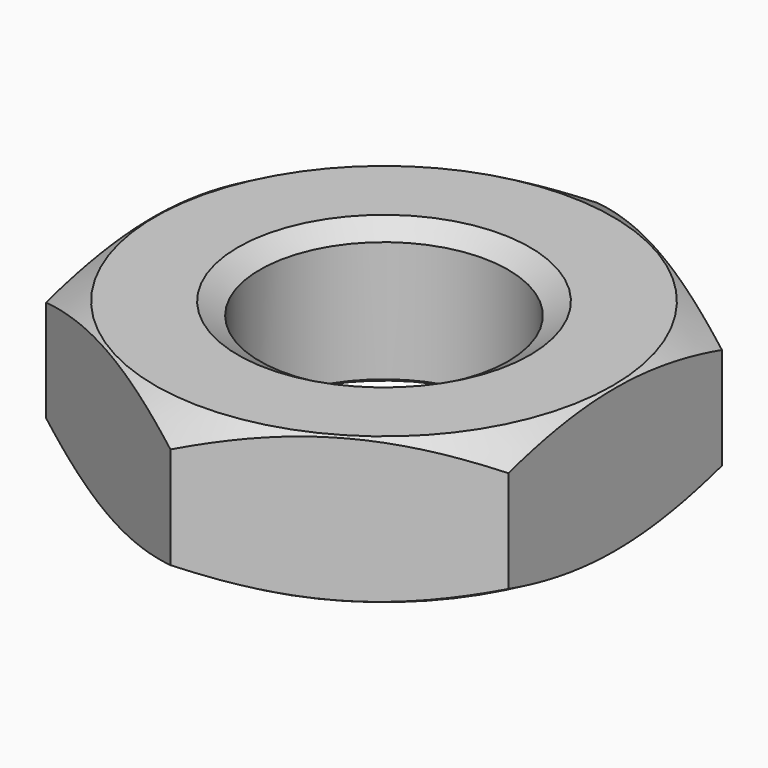
from build123d import *

# Parameters (mm, degrees)
SKETCH001_R  = 12
POCKET_DEPTH = 6


with BuildPart() as part:
    # Sketch → Revolution (revolve)
    with BuildSketch(Plane.XZ):
        Polygon((6, 0), (5.1, 0.519615), (5.1, 5.480385), (6, 6), (9.4, 6), (12, 4.498889), (12, 1.501111), (9.4, 0), align=None)
    revolve(axis=Axis((0, 0, 0), (0, 0, 1)))

    # Sketch001 → Pocket (cut)
    with BuildSketch(Plane(origin=(0, 0, 6), x_dir=(-1, 0, 0), z_dir=(0, 0, 1))):
        Circle(SKETCH001_R)
        Polygon((-9.5, 5.484828), (-9.5, -5.484828), (0, -10.969655), (9.5, -5.484828), (9.5, 5.484828), (0, 10.969655), align=None, mode=Mode.SUBTRACT)
    extrude(amount=-POCKET_DEPTH, mode=Mode.SUBTRACT)


solid = part.part
